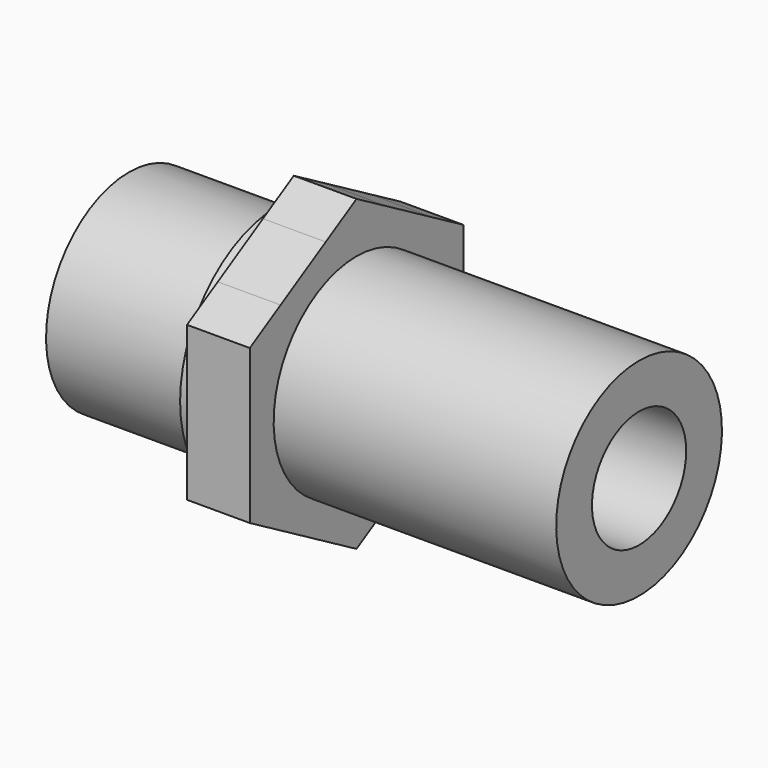
from build123d import *

# Parameters (mm, degrees)
F2_R     = 7.5
F3_DEPTH = 65.001
F4_R     = 7.5
F5_DEPTH = 8
F6_SIZE2 = 2.8867513459
F6_SIZE  = 5


with BuildPart() as f1:
    # F0 (on Front) → F1 (revolve)
    with BuildSketch(Plane.XZ):
        Polygon((-29, 13.2), (-29, 0), (36, 0), (36, 13.2), (0, 13.2), (0, 15.6), (-10, 15.6), (-10, 13.2), align=None)
    revolve(axis=Axis((5.8021252709, 0, 0), (1, 0, 0)))

    # F2 (on face) → F3 (cut, through all)
    with BuildSketch(Plane.YZ.offset(36)):
        Circle(F2_R)
    extrude(amount=-F3_DEPTH, mode=Mode.SUBTRACT)

    # F4 (on Right) → F5 (join)
    with BuildSketch(Plane.YZ):
        with BuildLine():
            Line((-17, 4.1533119315), (-17, -4.1533119315))
            ThreePointArc((-17, -4.1533119315), (-15.1554445662, -8.75), (-12.0968736425, -12.6457758986))
            Line((-12.0968736425, -12.6457758986), (-4.9031263575, -16.7990878301))
            ThreePointArc((-4.9031263575, -16.7990878301), (0, -17.5), (4.9031263575, -16.7990878301))
            Line((4.9031263575, -16.7990878301), (12.0968736425, -12.6457758986))
            ThreePointArc((12.0968736425, -12.6457758986), (15.1554445662, -8.75), (17, -4.1533119315))
            Line((17, -4.1533119315), (17, 4.1533119315))
            ThreePointArc((17, 4.1533119315), (15.1554445662, 8.75), (12.0968736425, 12.6457758986))
            Line((12.0968736425, 12.6457758986), (4.9031263575, 16.7990878301))
            ThreePointArc((4.9031263575, 16.7990878301), (0, 17.5), (-4.9031263575, 16.7990878301))
            Line((-4.9031263575, 16.7990878301), (-12.0968736425, 12.6457758986))
            ThreePointArc((-12.0968736425, 12.6457758986), (-15.1554445662, 8.75), (-17, 4.1533119315))
        make_face()
        Circle(F4_R, mode=Mode.SUBTRACT)
        with BuildLine():
            Line((-17, 9.8149545762), (-17, 4.1533119315))
            ThreePointArc((-17, 4.1533119315), (-15.1554445662, 8.75), (-12.0968736425, 12.6457758986))
            Line((-12.0968736425, 12.6457758986), (-17, 9.8149545762))
        make_face()
        with BuildLine():
            Line((-17, -4.1533119315), (-17, -9.8149545762))
            Line((-17, -9.8149545762), (-12.0968736425, -12.6457758986))
            ThreePointArc((-12.0968736425, -12.6457758986), (-15.1554445662, -8.75), (-17, -4.1533119315))
        make_face()
        with BuildLine():
            ThreePointArc((4.9031263575, -16.7990878301), (0, -17.5), (-4.9031263575, -16.7990878301))
            Line((-4.9031263575, -16.7990878301), (0, -19.6299091524))
            Line((0, -19.6299091524), (4.9031263575, -16.7990878301))
        make_face()
        with BuildLine():
            ThreePointArc((17, -4.1533119315), (15.1554445662, -8.75), (12.0968736425, -12.6457758986))
            Line((12.0968736425, -12.6457758986), (17, -9.8149545762))
            Line((17, -9.8149545762), (17, -4.1533119315))
        make_face()
        with BuildLine():
            Line((17, 9.8149545762), (12.0968736425, 12.6457758986))
            ThreePointArc((12.0968736425, 12.6457758986), (15.1554445662, 8.75), (17, 4.1533119315))
            Line((17, 4.1533119315), (17, 9.8149545762))
        make_face()
        with BuildLine():
            Line((0, 19.6299091524), (-4.9031263575, 16.7990878301))
            ThreePointArc((-4.9031263575, 16.7990878301), (0, 17.5), (4.9031263575, 16.7990878301))
            Line((4.9031263575, 16.7990878301), (0, 19.6299091524))
        make_face()
    extrude(amount=-F5_DEPTH)

    # F6
    f6_edges = [f1.edges().sort_by_distance(p)[0] for p in [
        (-29, -7.5, 0),
    ]]
    chamfer(f6_edges, length=F6_SIZE, length2=F6_SIZE2)


solid = f1.part
